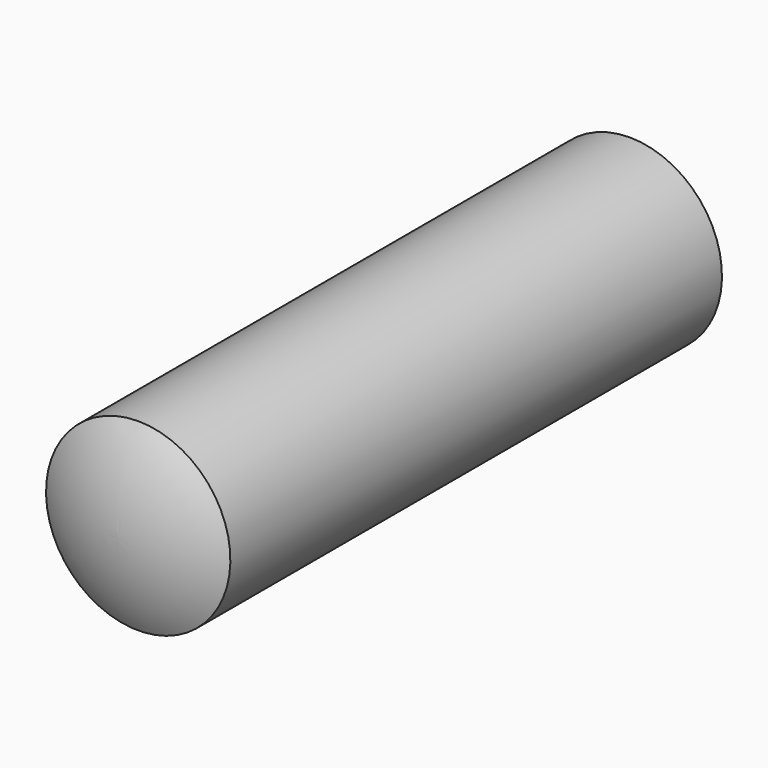
from build123d import *


with BuildPart() as part:
    # Sketch → Revolution (revolve)
    with BuildSketch(Plane.YZ):
        with BuildLine():
            ThreePointArc((10.401924, 0), (10.299701, 0.776457), (10, 1.5))
            Line((0, 1.5), (10, 1.5))
            ThreePointArc((0, 1.5), (-0.299701, 0.776457), (-0.401924, 0))
            Line((-0.401924, 0), (10.401924, 0))
        make_face()
    revolve(axis=Axis((0, 0, 0), (0, 1, 0)))


solid = part.part
